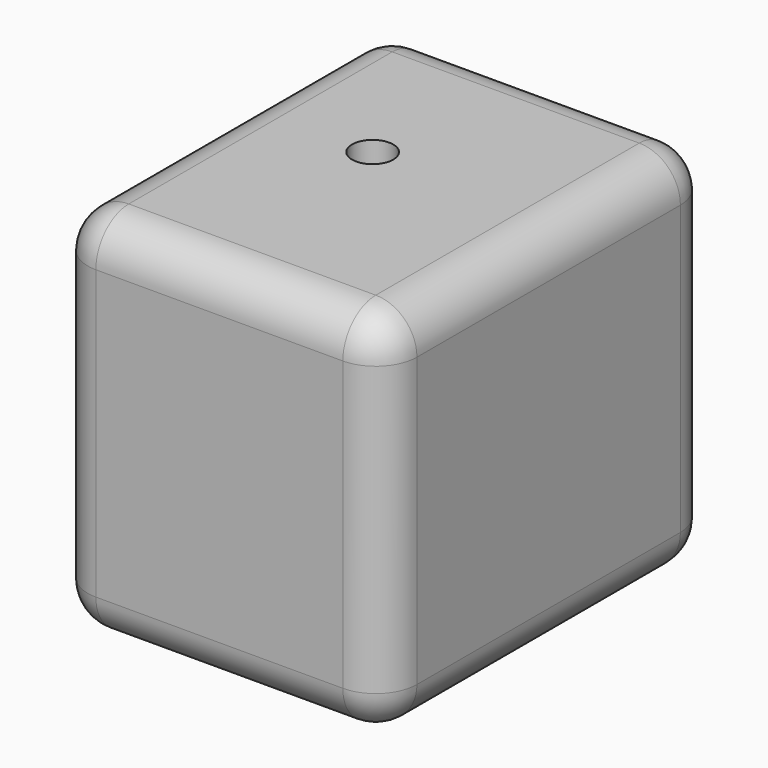
from build123d import *

# Parameters (mm, degrees)
F0_W     = 50.8
F0_H     = 57.15
F1_DEPTH = 63.5
F3_D     = 6.35
F3_DEPTH = 12.7
F3_TIP   = 1.9077324654
F4_R     = 6.35


with BuildPart() as f1:
    # F0 (on Front) → F1 (new body)
    with BuildSketch(Plane.XZ):
        with Locations((25.4, 28.575)):
            Rectangle(F0_W, F0_H)
    extrude(amount=F1_DEPTH)

    # F3
    with Locations(Plane.XY.offset(57.15)):
        with Locations((20.8245180547, -28.2227080315)):
            Hole(F3_D / 2, depth=F3_DEPTH)
            with Locations((0, 0, -(F3_DEPTH + F3_TIP / 2))):  # 118° drill point
                Cone(0, F3_D / 2, F3_TIP, mode=Mode.SUBTRACT)

    # F4
    f4_edges = [f1.edges().sort_by_distance(p)[0] for p in [
        (50.8, -31.75, 0),
        (50.8, -31.75, 57.15),
        (50.8, 0, 28.575),
        (50.8, -63.5, 28.575),
        (0, -63.5, 28.575),
        (25.4, -63.5, 0),
        (25.4, -63.5, 57.15),
        (25.4, 0, 57.15),
        (0, -31.75, 57.15),
        (0, 0, 28.575),
        (25.4, 0, 0),
        (0, -31.75, 0),
    ]]
    fillet(f4_edges, radius=F4_R)


solid = f1.part
